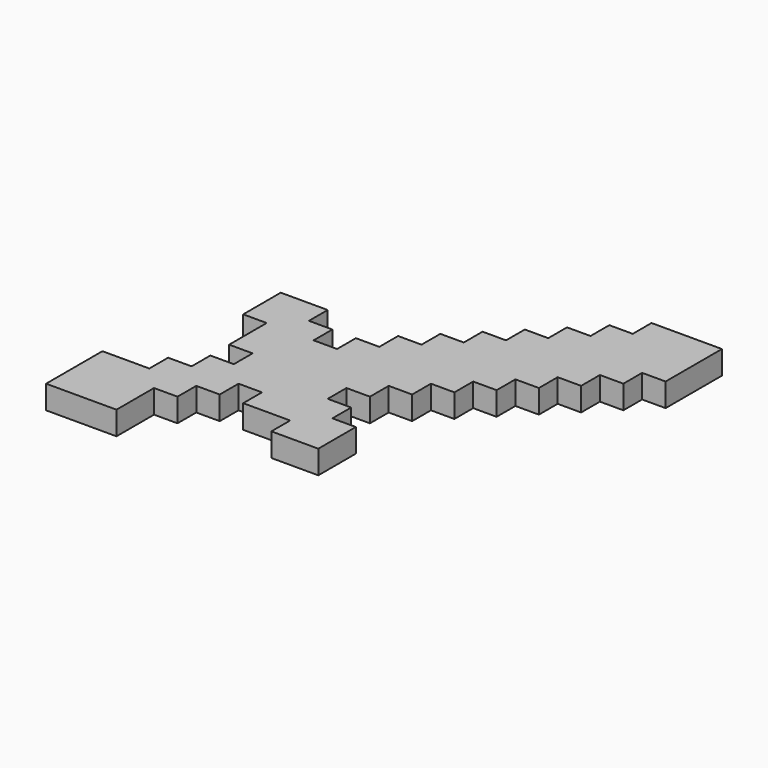
from build123d import *

# Parameters (mm, degrees)
F1_DEPTH = 12.7


with BuildPart() as f1:
    # F0 (on Top) → F1 (new body)
    with BuildSketch(Plane.XY):
        Polygon((12.7, -12.7), (25.4, -12.7), (25.4, 0), (38.1, 0), (38.1, 12.7), (50.8, 12.7), (50.8, 25.4), (63.5, 25.4), (63.5, 38.1), (76.2, 38.1), (76.2, 50.8), (88.9, 50.8), (88.9, 63.5), (101.6, 63.5), (101.6, 101.6), (88.9, 101.6), (76.2, 101.6), (63.5, 101.6), (63.5, 88.9), (50.8, 88.9), (50.8, 76.2), (38.1, 76.2), (38.1, 63.5), (25.4, 63.5), (25.4, 50.8), (12.7, 50.8), (12.7, 38.1), (0, 38.1), (0, 25.4), (-12.7, 25.4), (-12.7, 12.7), (-25.4, 12.7), (-25.4, 0), (-38.1, 0), (-38.1, 12.7), (-50.8, 12.7), (-50.8, 25.4), (-76.2, 25.4), (-76.2, 0), (-63.5, 0), (-63.5, -25.4), (-50.8, -25.4), (-50.8, -38.1), (-63.5, -38.1), (-63.5, -50.8), (-76.2, -50.8), (-76.2, -63.5), (-101.6, -63.5), (-101.6, -76.2), (-101.6, -88.9), (-101.6, -101.6), (-63.5, -101.6), (-63.5, -76.2), (-50.8, -76.2), (-50.8, -63.5), (-38.1, -63.5), (-38.1, -50.8), (-25.4, -50.8), (-25.4, -63.5), (0, -63.5), (0, -76.2), (25.4, -76.2), (25.4, -63.5), (25.4, -50.8), (12.7, -50.8), (12.7, -38.1), (0, -38.1), (0, -25.4), (12.7, -25.4), align=None)
    extrude(amount=F1_DEPTH)


solid = f1.part
